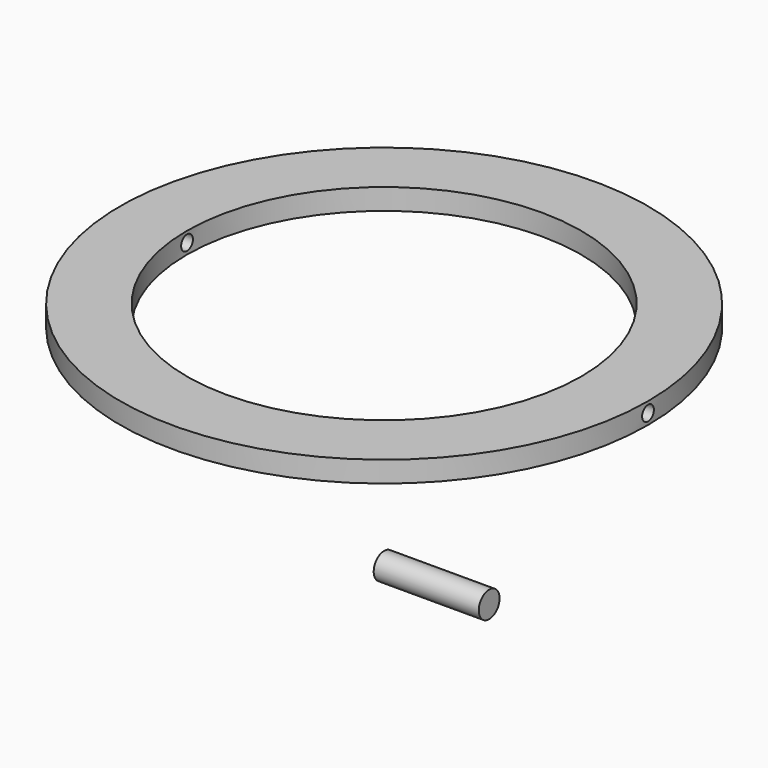
from build123d import *

# Parameters (mm, degrees)
F0_R          = 62.823284417
F0_R_2        = 46.9397632094
F1_DEPTH      = 5
F2_R          = 3.0987822173
F3_DEPTH      = 25
F4_R          = 1.75
F5_DEPTH      = 94.8
F5_DEPTH_BACK = 86.7


with BuildPart() as f1:
    # F0 (on Top) → F1 (new body)
    with BuildSketch(Plane.XY):
        Circle(F0_R)
        Circle(F0_R_2, mode=Mode.SUBTRACT)
    extrude(amount=F1_DEPTH)

    # F4 (on Right) → F5 (cut, two sides)
    with BuildSketch(Plane.YZ) as f5_sk:
        with Locations((0, 2.5)):
            Circle(F4_R)
    extrude(amount=-F5_DEPTH, mode=Mode.SUBTRACT)
    extrude(f5_sk.sketch, amount=F5_DEPTH_BACK, mode=Mode.SUBTRACT)


with BuildPart() as f3:
    # F2 (on Right) → F3 (new body)
    with BuildSketch(Plane.YZ):
        with Locations((0, -49.8894266784)):
            Circle(F2_R)
    extrude(amount=F3_DEPTH)


solid = Compound([f1.part, f3.part])
